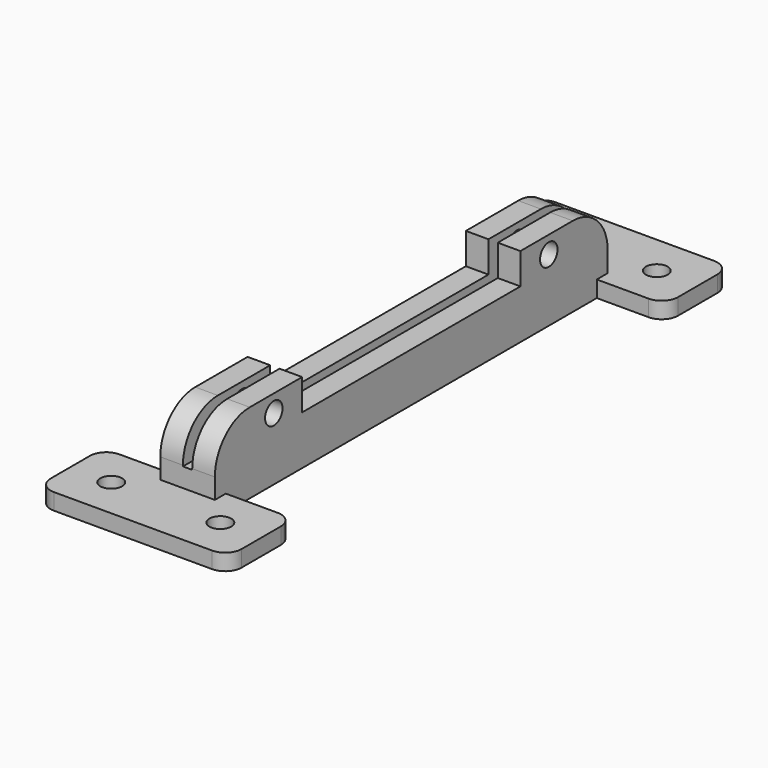
from build123d import *

# Parameters (mm, degrees)
SKETCH_R     = 2
PAD_DEPTH    = 3
SKETCH001_W  = 4.15
SKETCH001_H  = 90
PAD001_DEPTH = 11.7
SKETCH002_R  = 2
SKETCH002_W  = 50
SKETCH002_H  = 6
POCKET_DEPTH = 15
SKETCH003_W  = 4.09
SKETCH003_H  = 90
PAD002_DEPTH = 3.5
FILLET_R     = 8


with BuildPart() as part:
    # Sketch → Pad (new body)
    with BuildSketch(Plane.XY):
        with BuildLine():
            Line((-14.5, 57.5), (14.5, 57.5))
            ThreePointArc((17.5, 54.5), (16.62132, 56.62132), (14.5, 57.5))
            Line((17.5, 54.5), (17.5, 45.5))
            ThreePointArc((14.5, 42.5), (16.62132, 43.37868), (17.5, 45.5))
            Line((14.5, 42.5), (5, 42.5))
            Line((5, 42.5), (5, -42.5))
            Line((5, -42.5), (14.5, -42.5))
            ThreePointArc((17.5, -45.5), (16.62132, -43.37868), (14.5, -42.5))
            Line((17.5, -45.5), (17.5, -54.5))
            ThreePointArc((14.5, -57.5), (16.62132, -56.62132), (17.5, -54.5))
            Line((14.5, -57.5), (-14.5, -57.5))
            ThreePointArc((-17.5, -54.5), (-16.62132, -56.62132), (-14.5, -57.5))
            Line((-17.5, -54.5), (-17.5, -45.5))
            ThreePointArc((-14.5, -42.5), (-16.62132, -43.37868), (-17.5, -45.5))
            Line((-5, -42.5), (-14.5, -42.5))
            Line((-5, 42.5), (-5, -42.5))
            Line((-14.5, 42.5), (-5, 42.5))
            ThreePointArc((-17.5, 45.5), (-16.62132, 43.37868), (-14.5, 42.5))
            Line((-17.5, 45.5), (-17.5, 54.5))
            ThreePointArc((-14.5, 57.5), (-16.62132, 56.62132), (-17.5, 54.5))
        make_face()
        with Locations((-10, 50)):
            Circle(SKETCH_R, mode=Mode.SUBTRACT)
        with Locations((10, 50)):
            Circle(SKETCH_R, mode=Mode.SUBTRACT)
        with Locations((-10, -50)):
            Circle(SKETCH_R, mode=Mode.SUBTRACT)
        with Locations((10, -50)):
            Circle(SKETCH_R, mode=Mode.SUBTRACT)
    extrude(amount=PAD_DEPTH)

    # Sketch001 → Pad001 (join)
    with BuildSketch(Plane.XY.offset(3)):
        with Locations((-2.925, 0)):
            Rectangle(SKETCH001_W, SKETCH001_H)
        with Locations((2.925, 0)):
            Rectangle(SKETCH001_W, SKETCH001_H)
    extrude(amount=PAD001_DEPTH)

    # Sketch002 → Pocket (cut)
    with BuildSketch(Plane.YZ.offset(5)):
        with Locations((-31.5, 11.5)):
            Circle(SKETCH002_R)
        with Locations((31.5, 11.5)):
            Circle(SKETCH002_R)
        with Locations((0, 12)):
            Rectangle(SKETCH002_W, SKETCH002_H)
    extrude(amount=-POCKET_DEPTH, mode=Mode.SUBTRACT)

    # Sketch003 → Pad002 (join)
    with BuildSketch(Plane.XY.offset(3)):
        with Locations((0.341939, 0)):
            Rectangle(SKETCH003_W, SKETCH003_H)
    extrude(amount=PAD002_DEPTH)

    # Fillet
    fillet_edges = [part.edges().sort_by_distance(p)[0] for p in [
        (-2.925, -45, 14.7),
        (2.925, -45, 14.7),
        (2.925, 45, 14.7),
        (-2.925, 45, 14.7),
    ]]
    fillet(fillet_edges, radius=FILLET_R)


solid = part.part
